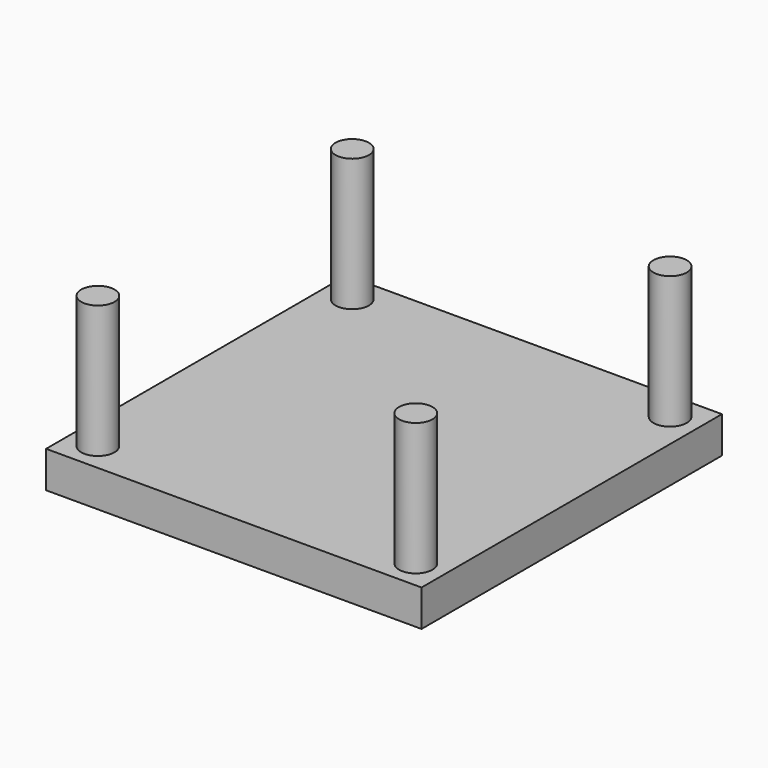
from build123d import *

# Parameters (mm, degrees)
F0_W     = 36
F0_H     = 36
F1_DEPTH = 3.5
F2_R     = 1.6002
F3_DEPTH = 12.7


with BuildPart() as f1:
    # F0 (on Top) → F1 (new body)
    with BuildSketch(Plane.XY):
        Rectangle(F0_W, F0_H)
    extrude(amount=F1_DEPTH)

    # F2 (on face) → F3 (join)
    with BuildSketch(Plane.XY.offset(3.5)):
        with Locations((-15.24, 15.24)):
            Circle(F2_R)
        with Locations((15.24, 15.24)):
            Circle(F2_R)
        with Locations((-15.24, -15.24)):
            Circle(F2_R)
        with Locations((15.24, -15.24)):
            Circle(F2_R)
    extrude(amount=F3_DEPTH)


solid = f1.part
